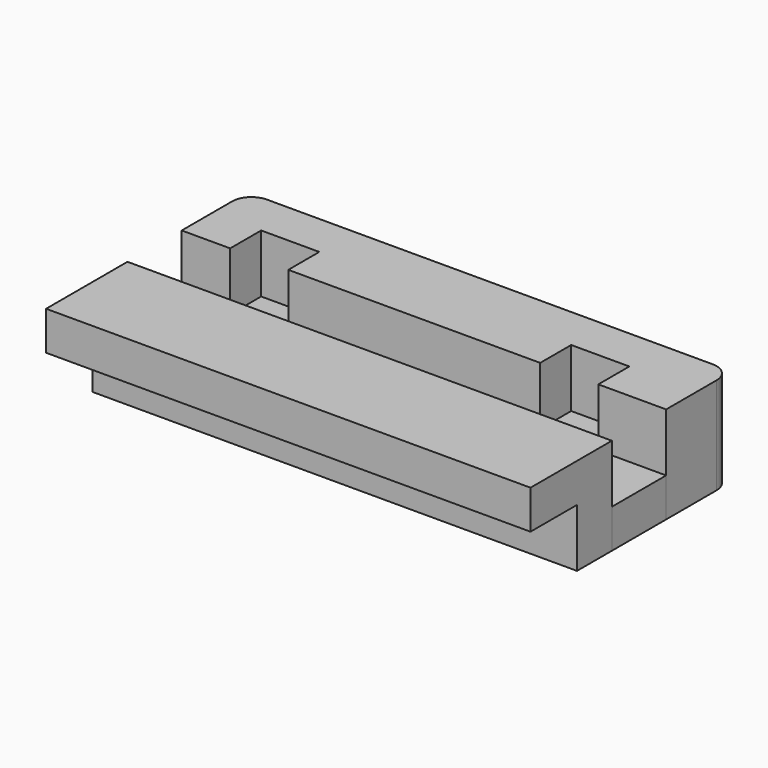
from build123d import *

# Parameters (mm, degrees)
F0_W     = 25
F0_H     = 2.25
F1_DEPTH = 5
F2_DEPTH = 2
F3_R     = 1
F4_W     = 25
F4_H     = 2
F5_DEPTH = 3


with BuildPart() as f1:
    # F0 (on Top) → F1 (new body)
    with BuildSketch(Plane.XY):
        Polygon((13, 6), (-12, 6), (-12, 1.75), (-9.5, 1.75), (-9.5, 3.75), (-6.5, 3.75), (-6.5, 1.75), (6.5, 1.75), (6.5, 3.75), (9.5, 3.75), (9.5, 1.75), (13, 1.75), align=None)
        with Locations((0.5, -2.875)):
            Rectangle(F0_W, F0_H)
    extrude(amount=F1_DEPTH)

    # F3
    f3_edges = [f1.edges().sort_by_distance(p)[0] for p in [
        (13, 6, 2.5),
        (-12, 6, 2.5),
    ]]
    fillet(f3_edges, radius=F3_R)

    # F4 (on face) → F5 (join)
    with BuildSketch(Plane.XZ.offset(4)):
        with Locations((0.5, 4)):
            Rectangle(F4_W, F4_H)
    extrude(amount=F5_DEPTH)


with BuildPart() as f2:
    # F0 (on Top) → F2 (new body)
    with BuildSketch(Plane.XY):
        Polygon((-9.5, 1.75), (-12, 1.75), (-12, -1.75), (13, -1.75), (13, 1.75), (9.5, 1.75), (9.5, 3.75), (6.5, 3.75), (6.5, 1.75), (-6.5, 1.75), (-6.5, 3.75), (-9.5, 3.75), align=None)
    extrude(amount=F2_DEPTH)


solid = Compound([f1.part, f2.part])
